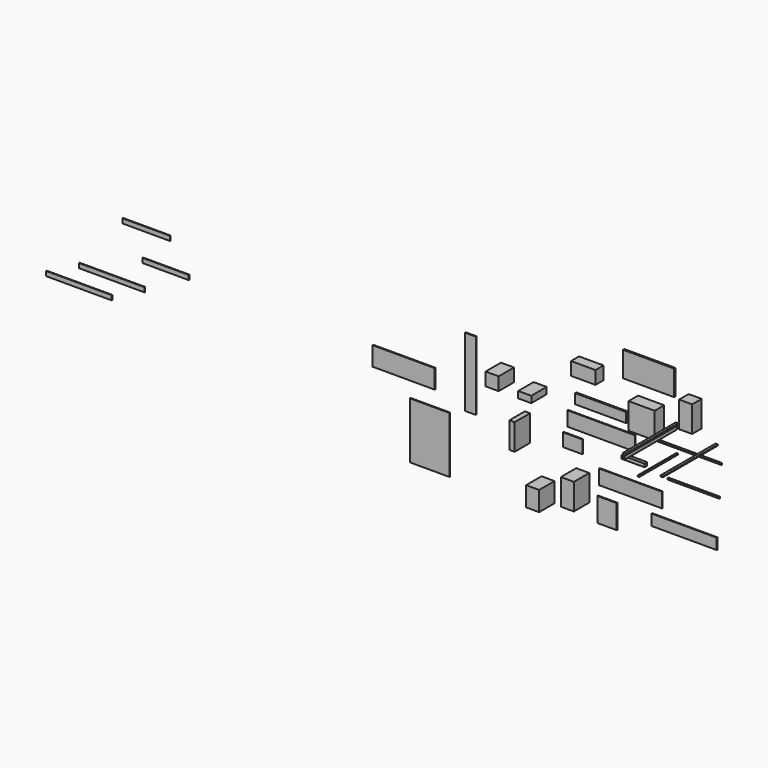
from build123d import *

# Parameters (mm, degrees)
F0_W      = 710
F0_H      = 100
F1_DEPTH  = 100
F2_W      = 2000
F2_H      = 334
F3_DEPTH  = 27
F4_W      = 1565
F4_H      = 770
F4_H_2    = 300
F5_DEPTH  = 50
F7_DEPTH  = 2010
F8_W      = 2110
F8_H      = 48
F9_DEPTH  = 24
F10_W     = 1589
F10_H     = 48
F11_DEPTH = 24
F12_W     = 1899
F12_H     = 580
F12_W_2   = 334
F12_H_2   = 2110
F12_W_3   = 1210.284843
F12_H_3   = 1726.143237
F13_DEPTH = 28
F14_W     = 800
F14_H     = 800
F15_DEPTH = 366
F16_W     = 400
F16_H     = 800
F17_DEPTH = 366
F18_W     = 750
F18_H     = 400
F19_DEPTH = 310
F20_W     = 75
F20_H     = 30
F21_DEPTH = 2110
F22_W     = 400
F22_H     = 200
F22_H_2   = 400
F23_DEPTH = 590
F24_W     = 400
F24_H     = 600
F25_DEPTH = 590
F26_W     = 590
F26_H     = 400
F27_DEPTH = 28
F28_W     = 160
F28_H     = 800
F29_DEPTH = 590
F30_W     = 400
F30_H     = 800
F31_DEPTH = 590
F32_W     = 2060
F32_H     = 441
F32_W_2   = 1931
F32_H_2   = 450
F32_W_3   = 590
F32_H_3   = 731
F33_DEPTH = 27
F34_W     = 50
F34_H     = 30
F35_DEPTH = 1490
F36_W     = 1415
F36_H     = 140
F36_W_2   = 2010
F36_W_3   = 1461
F37_DEPTH = 23


with BuildPart() as f1:
    # F0 (on Front) → F1 (new body)
    with BuildSketch(Plane.XZ):
        with Locations((284.664744, 365.880244)):
            Rectangle(F0_W, F0_H)
    extrude(amount=F1_DEPTH)


with BuildPart() as f3:
    # F2 (on Front) → F3 (new body)
    with BuildSketch(Plane.XZ):
        with Locations((1792.124271, -1078.362907)):
            Rectangle(F2_W, F2_H)
    extrude(amount=F3_DEPTH)


with BuildPart() as f5:
    # F4 (on Front) → F5 (new body)
    with BuildSketch(Plane.XZ):
        with Locations((724.849694, 2853.207262)):
            Rectangle(F4_W, F4_H)
        with Locations((-745.849795, 1440.107686)):
            Rectangle(F4_W, F4_H_2)
    extrude(amount=F5_DEPTH)


with BuildPart() as f7:
    # F6 (on Front) → F7 (new body)
    with BuildSketch(Plane.XZ):
        Polygon((1513.458872, 1595.77716), (1558.458872, 1595.77716), (1558.458872, 1720.77716), (1588.458872, 1720.77716), (1588.458872, 1770.77716), (1513.458872, 1770.77716), align=None)
    extrude(amount=F7_DEPTH)


with BuildPart() as f9:
    # F8 (on Front) → F9 (new body)
    with BuildSketch(Plane.XZ):
        with Locations((1874.693036, 1114.932496)):
            Rectangle(F8_W, F8_H)
    extrude(amount=F9_DEPTH)


with BuildPart() as f11:
    # F10 (on Front) → F11 (new body)
    with BuildSketch(Plane.XZ):
        with Locations((2082.493305, 187.526129)):
            Rectangle(F10_W, F10_H)
    extrude(amount=F11_DEPTH)


with BuildPart() as f13:
    # F12 (on Front) → F13 (new body)
    with BuildSketch(Plane.XZ):
        with Locations((-6798.378944, 561.394877)):
            Rectangle(F12_W, F12_H)
        with Locations((-4752.052484, 1055)):
            Rectangle(F12_W_2, F12_H_2)
        with Locations((-6000.372431, -1073.276282)):
            Rectangle(F12_W_3, F12_H_3)
    extrude(amount=F13_DEPTH)


with BuildPart() as f15:
    # F14 (on Front) → F15 (new body)
    with BuildSketch(Plane.XZ):
        with Locations((762.103327, 1719.746114)):
            Rectangle(F14_W, F14_H)
    extrude(amount=F15_DEPTH)


with BuildPart() as f17:
    # F16 (on Front) → F17 (new body)
    with BuildSketch(Plane.XZ):
        with Locations((2109.963225, 2264.778495)):
            Rectangle(F16_W, F16_H)
    extrude(amount=F17_DEPTH)


with BuildPart() as f19:
    # F18 (on Front) → F19 (new body)
    with BuildSketch(Plane.XZ):
        with Locations((-1070.879757, 2389.413956)):
            Rectangle(F18_W, F18_H)
    extrude(amount=F19_DEPTH)


with BuildPart() as f21:
    # F20 (on Front) → F21 (new body)
    with BuildSketch(Plane.XZ):
        with Locations((2771.255136, 1582.972825)):
            Rectangle(F20_W, F20_H)
    extrude(amount=F21_DEPTH)


with BuildPart() as f23:
    # F22 (on Front) → F23 (new body)
    with BuildSketch(Plane.XZ):
        with Locations((-2638.930207, 1343.371749)):
            Rectangle(F22_W, F22_H)
        with Locations((-3638.775873, 1442.092967)):
            Rectangle(F22_W, F22_H_2)
    extrude(amount=F23_DEPTH)


with BuildPart() as f25:
    # F24 (on Front) → F25 (new body)
    with BuildSketch(Plane.XZ):
        with Locations((-2396.908727, -1317.645407)):
            Rectangle(F24_W, F24_H)
    extrude(amount=F25_DEPTH)


with BuildPart() as f27:
    # F26 (on Front) → F27 (new body)
    with BuildSketch(Plane.XZ):
        with Locations((-1619.585202, 200)):
            Rectangle(F26_W, F26_H)
    extrude(amount=F27_DEPTH)


with BuildPart() as f29:
    # F28 (on Front) → F29 (new body)
    with BuildSketch(Plane.XZ):
        with Locations((-3027.869124, 166.185106)):
            Rectangle(F28_W, F28_H)
    extrude(amount=F29_DEPTH)


with BuildPart() as f31:
    # F30 (on Front) → F31 (new body)
    with BuildSketch(Plane.XZ):
        with Locations((-1334.106386, -853.806677)):
            Rectangle(F30_W, F30_H)
    extrude(amount=F31_DEPTH)


with BuildPart() as f33:
    # F32 (on Front) → F33 (new body)
    with BuildSketch(Plane.XZ):
        with Locations((-748.460316, 815.234985)):
            Rectangle(F32_W, F32_H)
        with Locations((150.395396, -442.6007)):
            Rectangle(F32_W_2, F32_H_2)
        with Locations((-571.072953, -1340.318295)):
            Rectangle(F32_W_3, F32_H_3)
    extrude(amount=F33_DEPTH)


with BuildPart() as f35:
    # F34 (on Front) → F35 (new body)
    with BuildSketch(Plane.XZ):
        with Locations((1566.456125, 943.608493)):
            Rectangle(F34_W, F34_H)
    extrude(amount=F35_DEPTH)


with BuildPart() as f37:
    # F36 (on Front) → F37 (new body)
    with BuildSketch(Plane.XZ):
        with Locations((-14094.46476, 841.482944)):
            Rectangle(F36_W, F36_H)
        with Locations((-15745.519867, 70)):
            Rectangle(F36_W_2, F36_H)
        with Locations((-14686.287148, 1709.466286)):
            Rectangle(F36_W_3, F36_H)
        with Locations((-16750.519867, -472.547286)):
            Rectangle(F36_W_2, F36_H)
    extrude(amount=F37_DEPTH)


solid = Compound([f1.part, f3.part, f5.part, f7.part, f9.part, f11.part, f13.part, f15.part, f17.part, f19.part, f21.part, f23.part, f25.part, f27.part, f29.part, f31.part, f33.part, f35.part, f37.part])
